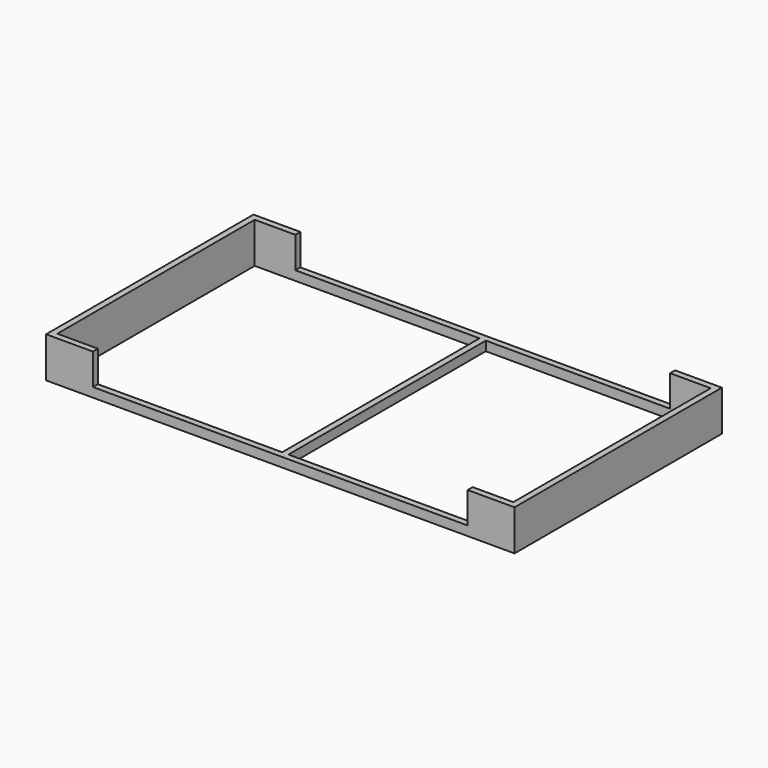
from build123d import *

# Parameters (mm, degrees)
F0_W     = 2
F0_H     = 79
F0_H_2   = 2
F0_W_2   = 11
F0_W_3   = 59
F1_DEPTH = 3
F2_DEPTH = 13


with BuildPart() as f1:
    # F0 (on Top) → F1 (new body)
    with BuildSketch(Plane.XY):
        with Locations((-74, 0)):
            Rectangle(F0_W, F0_H)
        with Locations((-74, -40.5)):
            Rectangle(F0_W, F0_H_2)
        with Locations((-67.5, -40.5)):
            Rectangle(F0_W_2, F0_H_2)
        with Locations((-74, 40.5)):
            Rectangle(F0_W, F0_H_2)
        with Locations((-61, -40.5)):
            Rectangle(F0_W, F0_H_2)
        with Locations((-67.5, 40.5)):
            Rectangle(F0_W_2, F0_H_2)
        with Locations((-30.5, -40.5)):
            Rectangle(F0_W_3, F0_H_2)
        with Locations((-61, 40.5)):
            Rectangle(F0_W, F0_H_2)
        with Locations((0, -40.5)):
            Rectangle(F0_W, F0_H_2)
        with Locations((-30.5, 40.5)):
            Rectangle(F0_W_3, F0_H_2)
        with Locations((30.5, -40.5)):
            Rectangle(F0_W_3, F0_H_2)
        with Locations((0, 40.5)):
            Rectangle(F0_W, F0_H_2)
        with Locations((61, -40.5)):
            Rectangle(F0_W, F0_H_2)
        with Locations((30.5, 40.5)):
            Rectangle(F0_W_3, F0_H_2)
        with Locations((67.5, -40.5)):
            Rectangle(F0_W_2, F0_H_2)
        with Locations((61, 40.5)):
            Rectangle(F0_W, F0_H_2)
        with Locations((74, 0)):
            Rectangle(F0_W, F0_H)
        with Locations((74, -40.5)):
            Rectangle(F0_W, F0_H_2)
        with Locations((67.5, 40.5)):
            Rectangle(F0_W_2, F0_H_2)
        with Locations((74, 40.5)):
            Rectangle(F0_W, F0_H_2)
        Rectangle(F0_W, F0_H)
    extrude(amount=F1_DEPTH)

    # F0 (on Top) → F2 (join)
    with BuildSketch(Plane.XY):
        with Locations((-61, -40.5)):
            Rectangle(F0_W, F0_H_2)
        with Locations((-61, 40.5)):
            Rectangle(F0_W, F0_H_2)
        with Locations((-74, 0)):
            Rectangle(F0_W, F0_H)
        with Locations((-74, -40.5)):
            Rectangle(F0_W, F0_H_2)
        with Locations((-67.5, -40.5)):
            Rectangle(F0_W_2, F0_H_2)
        with Locations((-67.5, 40.5)):
            Rectangle(F0_W_2, F0_H_2)
        with Locations((-74, 40.5)):
            Rectangle(F0_W, F0_H_2)
        with Locations((61, 40.5)):
            Rectangle(F0_W, F0_H_2)
        with Locations((67.5, 40.5)):
            Rectangle(F0_W_2, F0_H_2)
        with Locations((74, 40.5)):
            Rectangle(F0_W, F0_H_2)
        with Locations((74, 0)):
            Rectangle(F0_W, F0_H)
        with Locations((74, -40.5)):
            Rectangle(F0_W, F0_H_2)
        with Locations((67.5, -40.5)):
            Rectangle(F0_W_2, F0_H_2)
        with Locations((61, -40.5)):
            Rectangle(F0_W, F0_H_2)
    extrude(amount=F2_DEPTH)


solid = f1.part
